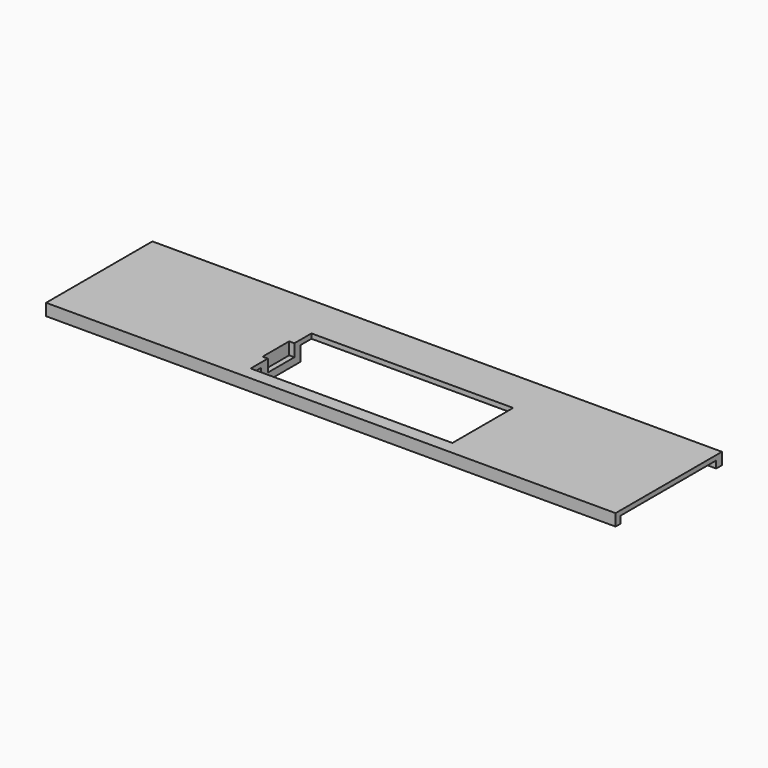
from build123d import *

# Parameters (mm, degrees)
F0_W      = 240
F0_H      = 56
F0_W_2    = 85
F0_H_2    = 32
F1_DEPTH  = 2
F2_W      = 2.2
F2_H      = 14
F3_DEPTH  = 25
F5_DEPTH  = 3.2
F6_W      = 2.2
F6_H      = 14
F7_DEPTH  = 3
F8_W      = 240
F8_H      = 3
F9_DEPTH  = 3
F8_H_2    = 2.5
F10_DEPTH = 3


with BuildPart() as f1:
    # F0 (on Top) → F1 (new body)
    with BuildSketch(Plane.XY):
        with Locations((13.640271, 28)):
            Rectangle(F0_W, F0_H)
        with Locations((17.96643, 21.5)):
            Rectangle(F0_W_2, F0_H_2, mode=Mode.SUBTRACT)
    extrude(amount=F1_DEPTH)

    # F2 (on face) → F3 (cut)
    with BuildSketch(Plane.XY.offset(2)):
        with Locations((-25.63357, 21.5)):
            Rectangle(F2_W, F2_H)
    extrude(amount=-F3_DEPTH, mode=Mode.SUBTRACT)

    # F4 (on face) → F5 (join)
    with BuildSketch(Plane(origin=(0, 0, 0), x_dir=(1, 0, 0), z_dir=(0, 0, -1))):
        Polygon((-24.53357, -14.5), (-24.53357, -11.051576), (-30.502366, -11.051576), (-30.502366, -31.678651), (-24.53357, -31.678651), (-24.53357, -28.5), (-26.73357, -28.5), (-26.73357, -14.5), align=None)
    extrude(amount=F5_DEPTH)

    # F6 (on face) → F7 (join)
    with BuildSketch(Plane(origin=(0, 0, -3.2), x_dir=(1, 0, 0), z_dir=(0, 0, -1))):
        Polygon((-24.53357, -14.5), (-24.53357, -11.051576), (-30.502366, -11.051576), (-30.502366, -31.678651), (-24.53357, -31.678651), (-24.53357, -28.5), (-26.73357, -28.5), (-26.73357, -14.5), align=None)
        with Locations((-25.63357, -21.5)):
            Rectangle(F6_W, F6_H)
    extrude(amount=F7_DEPTH)

    # F8 (on face) → F9 (join)
    with BuildSketch(Plane(origin=(0, 0, 0), x_dir=(1, 0, 0), z_dir=(0, 0, -1))):
        with Locations((13.640271, -54.5)):
            Rectangle(F8_W, F8_H)
    extrude(amount=F9_DEPTH)

    # F8 (on face) → F10 (join)
    with BuildSketch(Plane(origin=(0, 0, 0), x_dir=(1, 0, 0), z_dir=(0, 0, -1))):
        with Locations((13.640271, -1.25)):
            Rectangle(F8_W, F8_H_2)
    extrude(amount=F10_DEPTH)


solid = f1.part
